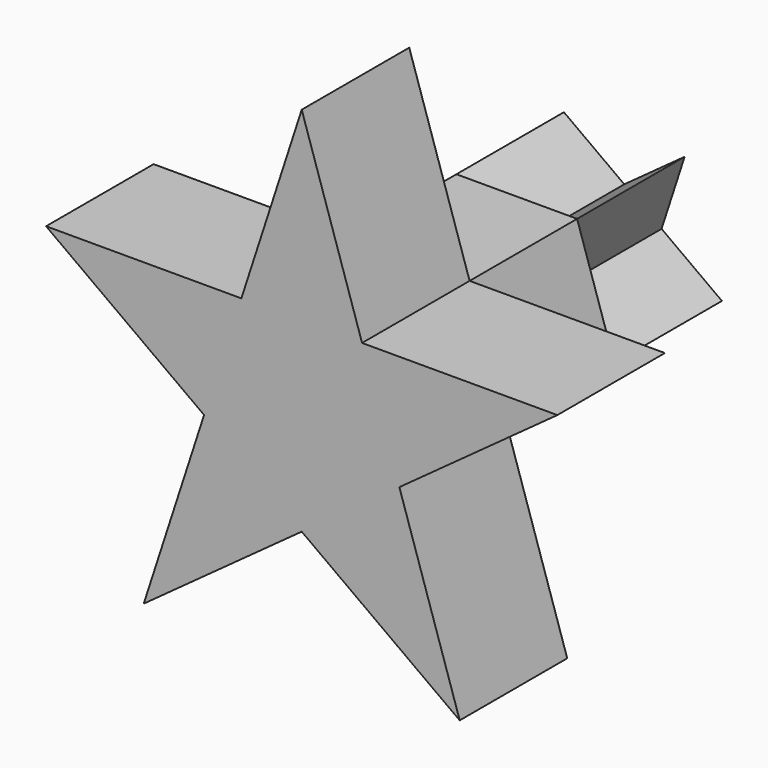
from build123d import *

# Parameters (mm, degrees)
F1_DEPTH = 25.4
F3_DEPTH = 25.4
F5_DEPTH = 25.4


with BuildPart() as f1:
    # F0 (on Front) → F1 (new body)
    with BuildSketch(Plane.XZ):
        Polygon((-18.4541802113, -5.9961266285), (-29.8594908165, -41.0980633142), (0, -19.4038733715), align=None)
        Polygon((-11.4053106051, 15.6980633142), (-48.3136710278, 15.6980633142), (-18.4541802113, -5.9961266285), align=None)
        Polygon((18.4541802113, -5.9961266285), (11.4053106051, 15.6980633142), (-11.4053106051, 15.6980633142), (-18.4541802113, -5.9961266285), (0, -19.4038733715), align=None)
        Polygon((11.4053106051, 15.6980633142), (0, 50.8), (-11.4053106051, 15.6980633142), align=None)
        Polygon((18.4541802113, -5.9961266285), (48.3136710278, 15.6980633142), (11.4053106051, 15.6980633142), align=None)
        Polygon((0, -19.4038733715), (29.8594908165, -41.0980633142), (18.4541802113, -5.9961266285), align=None)
    extrude(amount=F1_DEPTH)

    # F2 (on face) → F3 (join)
    with BuildSketch(Plane(origin=(0, 0, 0), x_dir=(-1, 0, 0), z_dir=(0, 1, 0))):
        Polygon((-11.4053106051, 15.6980633142), (-18.4541802113, -5.9961266285), (0, -19.4038733715), (18.4541802113, -5.9961266285), (11.4053106051, 15.6980633142), align=None)
    extrude(amount=F3_DEPTH)

    # F4 (on face) → F5 (join)
    with BuildSketch(Plane(origin=(0, 25.4, 0), x_dir=(-1, 0, 0), z_dir=(0, 1, 0))):
        Polygon((7.0488696062, 2.2903165712), (4.3564409989, -5.9961266285), (18.4541802113, -5.9961266285), align=None)
        Polygon((11.4053106051, 15.6980633142), (0, 7.4116201145), (7.0488696062, 2.2903165712), align=None)
        Polygon((0, 7.4116201145), (-7.0488696062, 2.2903165712), (-4.3564409989, -5.9961266285), (4.3564409989, -5.9961266285), (7.0488696062, 2.2903165712), align=None)
        Polygon((-11.4053106051, 15.6980633142), (-7.0488696062, 2.2903165712), (0, 7.4116201145), align=None)
        Polygon((-7.0488696062, 2.2903165712), (-18.4541802113, -5.9961266285), (-4.3564409989, -5.9961266285), align=None)
        Polygon((4.3564409989, -5.9961266285), (-4.3564409989, -5.9961266285), (0, -19.4038733715), align=None)
    extrude(amount=F5_DEPTH)


solid = f1.part
